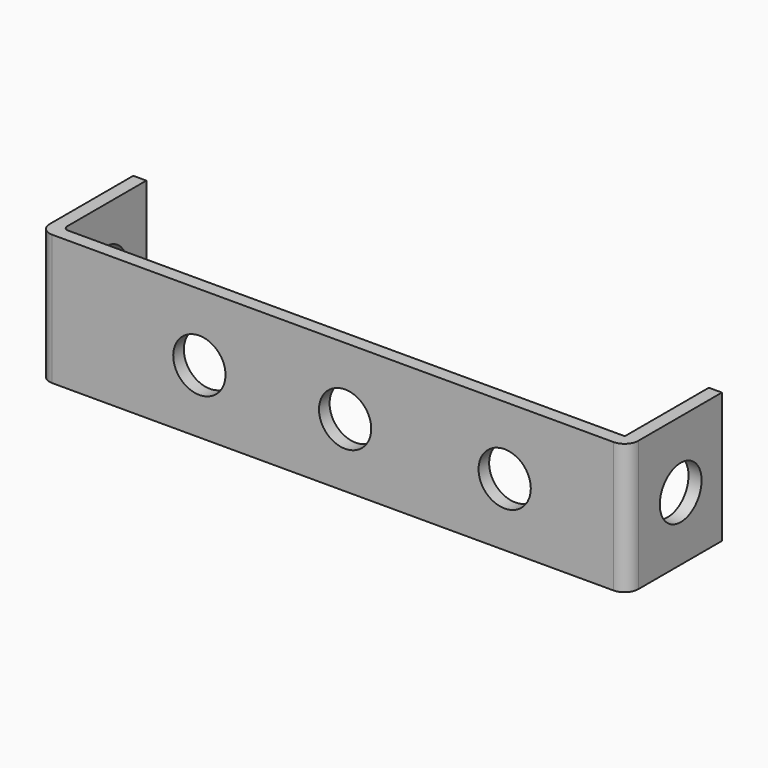
from build123d import *

# Parameters (mm, degrees)
CYLINDER030_R               = 2
CYLINDER030_DEPTH           = 10
CYLINDER030_PITCH_ANGLE     = 90
CYLINDER030_PLACEMENT_ANGLE = 7e-06
CYLINDER031_R               = 2
CYLINDER031_DEPTH           = 10
CYLINDER031_PITCH_ANGLE     = 90
CYLINDER031_PLACEMENT_ANGLE = 7e-06
CYLINDER026_R               = 2
CYLINDER026_DEPTH           = 2
CYLINDER026_ROLL_ANGLE      = -88.507054
CYLINDER026_PITCH_ANGLE     = -87.01751
CYLINDER026_PLACEMENT_ANGLE = -92.244015
CYLINDER028_R               = 2
CYLINDER028_DEPTH           = 2
CYLINDER028_PLACEMENT_ANGLE = 90.00001
CYLINDER029_R               = 2
CYLINDER029_DEPTH           = 2
CYLINDER029_ROLL_ANGLE      = 90
CYLINDER027_R               = 2
CYLINDER027_DEPTH           = 2
CYLINDER027_ROLL_ANGLE      = 90
CYLINDER025_R               = 2
CYLINDER025_DEPTH           = 2
CYLINDER025_ROLL_ANGLE      = -88.507054
CYLINDER025_PITCH_ANGLE     = -87.01751
CYLINDER025_PLACEMENT_ANGLE = -92.244015
PAD006_DEPTH                = 10


with BuildPart() as cylinder030:
    # Cylinder030 → Cylinder030 (new body)
    with BuildSketch(Plane.XY):
        Circle(CYLINDER030_R)
    extrude(amount=CYLINDER030_DEPTH)


with BuildPart() as cylinder030_1:
    # Cylinder030 pitch: moved
    add(cylinder030.part.rotate(Axis((0, 0, 0), (0, 1, 0)), CYLINDER030_PITCH_ANGLE))


with BuildPart() as cylinder030_2:
    # Cylinder030 placement: moved
    add(cylinder030_1.part.moved(Location((15.49, 3.9, 4.87))).rotate(Axis((15.49, 3.9, 4.87), (0, 0, 1)), CYLINDER030_PLACEMENT_ANGLE))


with BuildPart() as cylinder031:
    # Cylinder031 → Cylinder031 (new body)
    with BuildSketch(Plane.XY):
        Circle(CYLINDER031_R)
    extrude(amount=CYLINDER031_DEPTH)


with BuildPart() as cylinder031_1:
    # Cylinder031 pitch: moved
    add(cylinder031.part.rotate(Axis((0, 0, 0), (0, 1, 0)), CYLINDER031_PITCH_ANGLE))


with BuildPart() as cylinder031_2:
    # Cylinder031 placement: moved
    add(cylinder031_1.part.moved(Location((-28.4147, 3.9, 5.14))).rotate(Axis((-28.4147, 3.9, 5.14), (0, 0, 1)), CYLINDER031_PLACEMENT_ANGLE))


with BuildPart() as cylinder026:
    # Cylinder026 → Cylinder026 (new body)
    with BuildSketch(Plane.XY):
        Circle(CYLINDER026_R)
    extrude(amount=CYLINDER026_DEPTH)


with BuildPart() as cylinder026_1:
    # Cylinder026 roll: moved
    add(cylinder026.part.rotate(Axis((0, 0, 0), (1, 0, 0)), CYLINDER026_ROLL_ANGLE))


with BuildPart() as cylinder026_2:
    # Cylinder026 pitch: moved
    add(cylinder026_1.part.rotate(Axis((0, 0, 0), (0, 1, 0)), CYLINDER026_PITCH_ANGLE))


with BuildPart() as cylinder026_3:
    # Cylinder026 placement: moved
    add(cylinder026_2.part.moved(Location((-26, 5.29, 4.9))).rotate(Axis((-26, 5.29, 4.9), (0, 0, 1)), CYLINDER026_PLACEMENT_ANGLE))


with BuildPart() as cylinder028:
    # Cylinder028 → Cylinder028 (new body)
    with BuildSketch(Plane.XY):
        Circle(CYLINDER028_R)
    extrude(amount=CYLINDER028_DEPTH)


with BuildPart() as cylinder028_1:
    # Cylinder028 placement: moved
    add(cylinder028.part.moved(Location((-11.1555, 0, 4.86401))).rotate(Axis((-11.1555, 0, 4.86401), (1, 0, 0)), CYLINDER028_PLACEMENT_ANGLE))


with BuildPart() as cylinder029:
    # Cylinder029 → Cylinder029 (new body)
    with BuildSketch(Plane.XY):
        Circle(CYLINDER029_R)
    extrude(amount=CYLINDER029_DEPTH)


with BuildPart() as cylinder029_1:
    # Cylinder029 roll: moved
    add(cylinder029.part.rotate(Axis((0, 0, 0), (1, 0, 0)), CYLINDER029_ROLL_ANGLE))


with BuildPart() as cylinder029_2:
    # Cylinder029 placement: moved
    add(cylinder029_1.part.moved(Location((0, 0, 4.86401))))


with BuildPart() as cylinder027:
    # Cylinder027 → Cylinder027 (new body)
    with BuildSketch(Plane.XY):
        Circle(CYLINDER027_R)
    extrude(amount=CYLINDER027_DEPTH)


with BuildPart() as cylinder027_1:
    # Cylinder027 roll: moved
    add(cylinder027.part.rotate(Axis((0, 0, 0), (1, 0, 0)), CYLINDER027_ROLL_ANGLE))


with BuildPart() as cylinder027_2:
    # Cylinder027 placement: moved
    add(cylinder027_1.part.moved(Location((12.2129, 0, 4.81114))))


with BuildPart() as cylinder025:
    # Cylinder025 → Cylinder025 (new body)
    with BuildSketch(Plane.XY):
        Circle(CYLINDER025_R)
    extrude(amount=CYLINDER025_DEPTH)


with BuildPart() as cylinder025_1:
    # Cylinder025 roll: moved
    add(cylinder025.part.rotate(Axis((0, 0, 0), (1, 0, 0)), CYLINDER025_ROLL_ANGLE))


with BuildPart() as cylinder025_2:
    # Cylinder025 pitch: moved
    add(cylinder025_1.part.rotate(Axis((0, 0, 0), (0, 1, 0)), CYLINDER025_PITCH_ANGLE))


with BuildPart() as cylinder025_3:
    # Cylinder025 placement: moved
    add(cylinder025_2.part.moved(Location((25, 5.38, 4.9))).rotate(Axis((25, 5.38, 4.9), (0, 0, 1)), CYLINDER025_PLACEMENT_ANGLE))


with BuildPart() as cut019:
    # Sketch007 → Pad006 (new body)
    with BuildSketch(Plane.XY):
        with BuildLine():
            Line((20.546084, -1.208272), (-22.415471, -1.208272))
            ThreePointArc((-23.400725, -0.223018), (-23.112151, -0.919698), (-22.415471, -1.208272))
            Line((-23.400725, 7.776982), (-23.400725, -0.223018))
            Line((-23.400725, 7.776982), (-22.400725, 7.776982))
            Line((-22.400725, 7.776982), (-22.400725, 0.197829))
            ThreePointArc((-22.400725, 0.197829), (-22.286166, -0.07874), (-22.009596, -0.193299))
            Line((-22.009596, -0.193299), (20.555186, -0.193299))
            ThreePointArc((20.555186, -0.193299), (20.586324, -0.180401), (20.599222, -0.149263))
            Line((20.599222, 7.844865), (20.599222, -0.149263))
            Line((21.599222, 7.844865), (20.599222, 7.844865))
            Line((21.599222, 7.844865), (21.599222, -0.155135))
            ThreePointArc((20.546084, -1.208272), (21.290765, -0.899815), (21.599222, -0.155135))
        make_face()
    extrude(amount=PAD006_DEPTH)

    # Cut005: cut Cylinder025
    add(cylinder025_3.part, mode=Mode.SUBTRACT)

    # Cut006: cut Cylinder027
    add(cylinder027_2.part, mode=Mode.SUBTRACT)

    # Cut007: cut Cylinder029
    add(cylinder029_2.part, mode=Mode.SUBTRACT)

    # Cut008: cut Cylinder028
    add(cylinder028_1.part, mode=Mode.SUBTRACT)

    # Cut009: cut Cylinder026
    add(cylinder026_3.part, mode=Mode.SUBTRACT)

    # Cut018: cut Cylinder031
    add(cylinder031_2.part, mode=Mode.SUBTRACT)

    # Cut019: cut Cylinder030
    add(cylinder030_2.part, mode=Mode.SUBTRACT)


with BuildPart() as cut019_1:
    # Cut019 placement: moved
    add(cut019.part.moved(Location((-481.872341, 4.526565, -92.372143))))


solid = cut019_1.part
